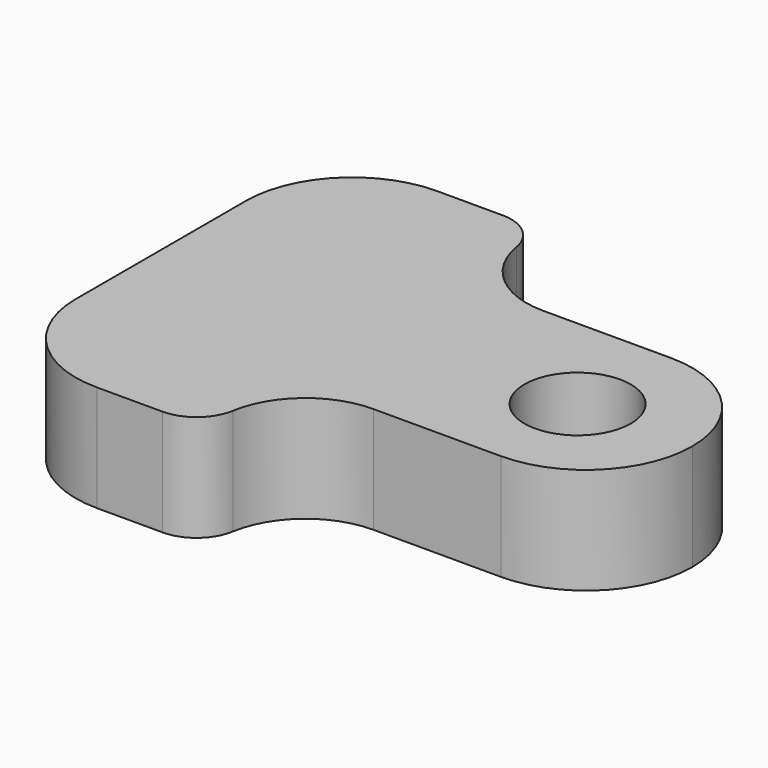
from build123d import *

# Parameters (mm, degrees)
F0_R     = 3.175
F1_DEPTH = 6.35
F2_R     = 5.08
F3_R     = 2.54


with BuildPart() as f1:
    # F0 (on Top) → F1 (new body)
    with BuildSketch(Plane.XY):
        with BuildLine():
            Line((6.35, 6.35), (6.35, 12.7))
            Line((6.35, 12.7), (0, 12.7))
            ThreePointArc((0, 12.7), (-4.490128, 10.840128), (-6.35, 6.35))
            Line((-6.35, 6.35), (-6.35, -6.35))
            ThreePointArc((-6.35, -6.35), (-4.490128, -10.840128), (0, -12.7))
            Line((0, -12.7), (6.35, -12.7))
            Line((6.35, -12.7), (6.35, -6.35))
            Line((6.35, -6.35), (12.7, -6.35))
            Line((12.7, -6.35), (19.05, -6.35))
            ThreePointArc((19.05, -6.35), (23.540128, -4.490128), (25.4, 0))
            ThreePointArc((25.4, 0), (23.540128, 4.490128), (19.05, 6.35))
            Line((19.05, 6.35), (6.35, 6.35))
        make_face()
        with Locations((18.548694, 0)):
            Circle(F0_R, mode=Mode.SUBTRACT)
    extrude(amount=F1_DEPTH)

    # F2
    f2_edges = [f1.edges().sort_by_distance(p)[0] for p in [
        (6.35, -6.35, 3.175),
        (6.35, 6.35, 3.175),
    ]]
    fillet(f2_edges, radius=F2_R)

    # F3
    f3_edges = [f1.edges().sort_by_distance(p)[0] for p in [
        (6.35, 12.7, 3.175),
        (6.35, -12.7, 3.175),
    ]]
    fillet(f3_edges, radius=F3_R)


solid = f1.part
